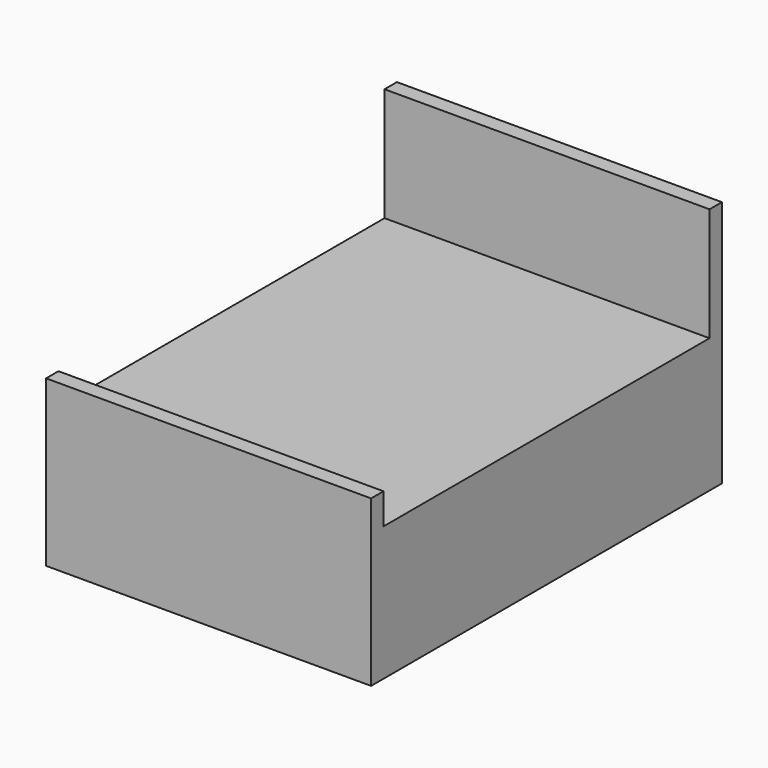
from build123d import *

# Parameters (mm, degrees)
F0_W     = 1600.2
F0_H     = 2006.6
F1_DEPTH = 660.4
F0_H_2   = 76.2
F2_DEPTH = 1219.2
F3_DEPTH = 812.8


with BuildPart() as f1:
    # F0 (on Top) → F1 (new body)
    with BuildSketch(Plane.XY):
        with Locations((800.1, 1079.5)):
            Rectangle(F0_W, F0_H)
    extrude(amount=F1_DEPTH)

    # F0 (on Top) → F2 (join)
    with BuildSketch(Plane.XY):
        with Locations((800.1, 2120.9)):
            Rectangle(F0_W, F0_H_2)
    extrude(amount=F2_DEPTH)

    # F0 (on Top) → F3 (join)
    with BuildSketch(Plane.XY):
        with Locations((800.1, 38.1)):
            Rectangle(F0_W, F0_H_2)
    extrude(amount=F3_DEPTH)


solid = f1.part
